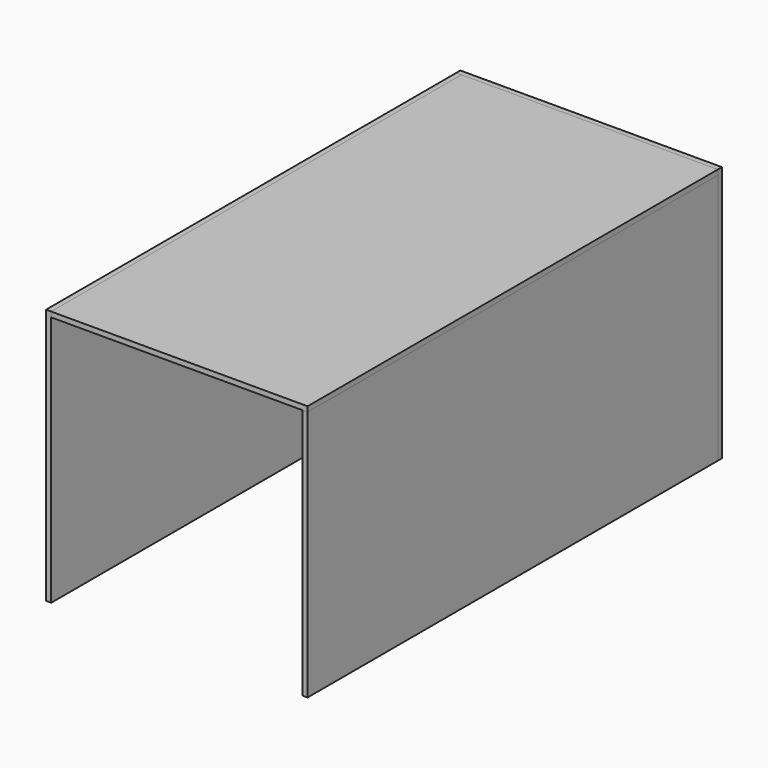
from build123d import *

# Parameters (mm, degrees)
F0_W     = 10
F0_H     = 500
F1_DEPTH = 1000
F2_W     = 1000
F2_H     = 10
F3_DEPTH = 500
F4_W     = 10
F4_H     = 1000
F5_DEPTH = 490
F6_W     = 510
F6_H     = 500
F7_DEPTH = 10
F8_T     = -5


with BuildPart() as f1:
    # F0 (on Front) → F1 (new body)
    with BuildSketch(Plane.XZ):
        Rectangle(F0_W, F0_H)
    extrude(amount=F1_DEPTH)


with BuildPart() as f3:
    # F2 (on face) → F3 (new body)
    with BuildSketch(Plane.YZ.offset(5)):
        with Locations((-500, 245)):
            Rectangle(F2_W, F2_H)
    extrude(amount=F3_DEPTH)


with BuildPart() as f5:
    # F4 (on face) → F5 (new body)
    with BuildSketch(Plane(origin=(0, 0, 240), x_dir=(1, 0, 0), z_dir=(0, 0, -1))):
        with Locations((500, 500)):
            Rectangle(F4_W, F4_H)
    extrude(amount=F5_DEPTH)


with BuildPart() as f7:
    # F6 (on face) → F7 (new body)
    with BuildSketch(Plane(origin=(0, 0, 0), x_dir=(-1, 0, 0), z_dir=(0, 1, 0))):
        with Locations((-250, 0)):
            Rectangle(F6_W, F6_H)
    extrude(amount=F7_DEPTH)

    # F8
    f8_openings = [f7.faces().sort_by_distance(p)[0] for p in [
        (250, 0, 0),
    ]]
    offset(amount=F8_T, openings=f8_openings)


solid = Compound([f1.part, f3.part, f5.part, f7.part])
